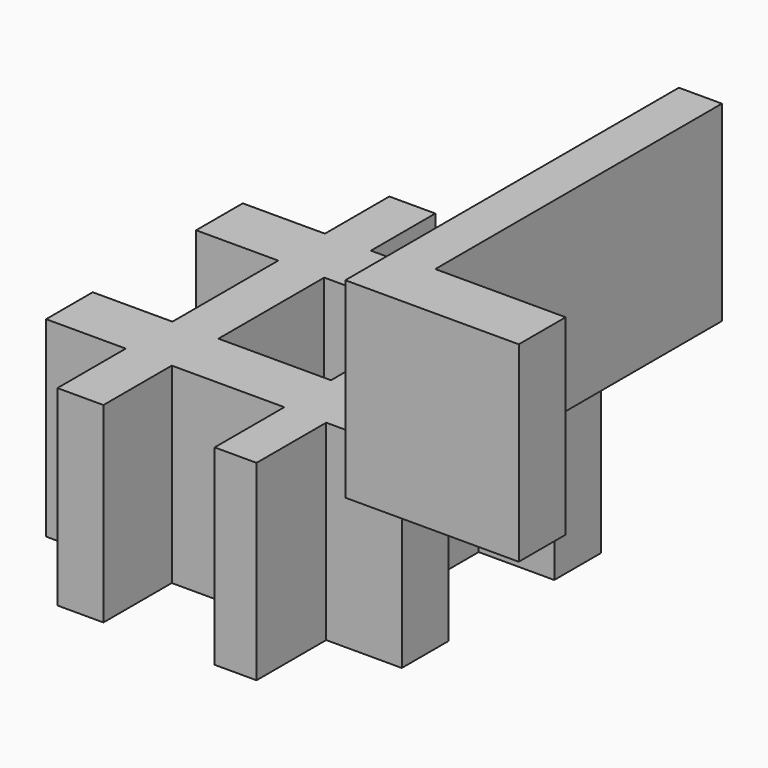
from build123d import *

# Parameters (mm, degrees)
F0_W     = 12.2086107731
F0_H     = 21.3650697842
F0_H_2   = 15.4787739739
F0_W_2   = 21.8010917306
F0_W_3   = 29.8674958758
F0_H_3   = 35.0997559726
F0_W_4   = 11.1185563728
F0_H_4   = 21.8010889366
F0_H_5   = 15.4787749052
F0_W_5   = 21.1470574141
F0_W_6   = 20.0570053421
F0_H_6   = 22.6731337607
F0_H_7   = 23.1091566384
F1_DEPTH = 50.8
F2_W     = 34.605551511
F2_H     = 15.5566222966
F3_DEPTH = 50.8


with BuildPart() as f1:
    # F0 (on Top) → F1 (new body)
    with BuildSketch(Plane.XY):
        with Locations((-40.1140078902, 26.161308866)):
            Rectangle(F0_W, F0_H)
        with Locations((-40.1140078902, 7.7393869869)):
            Rectangle(F0_W, F0_H_2)
        with Locations((-57.1188591421, 7.7393869869)):
            Rectangle(F0_W_2, F0_H_2)
        with Locations((-19.0759545658, 7.7393869869)):
            Rectangle(F0_W_3, F0_H_2)
        with Locations((-40.1140078902, -17.5498779863)):
            Rectangle(F0_W, F0_H_3)
        with Locations((1.4170715585, 7.7393869869)):
            Rectangle(F0_W_4, F0_H_2)
        with Locations((1.4170715585, 26.3793184422)):
            Rectangle(F0_W_4, F0_H_4)
        with Locations((-40.1140078902, -42.8391434252)):
            Rectangle(F0_W, F0_H_5)
        with Locations((-56.7918419838, -42.8391434252)):
            Rectangle(F0_W_5, F0_H_5)
        with Locations((-19.0759545658, -42.8391434252)):
            Rectangle(F0_W_3, F0_H_5)
        with Locations((1.4170715585, -17.5498779863)):
            Rectangle(F0_W_4, F0_H_3)
        with Locations((17.004852416, 7.7393869869)):
            Rectangle(F0_W_6, F0_H_2)
        with Locations((-40.1140078902, -61.9150977582)):
            Rectangle(F0_W, F0_H_6)
        with Locations((1.4170715585, -42.8391434252)):
            Rectangle(F0_W_4, F0_H_5)
        with Locations((1.4170715585, -62.133109197)):
            Rectangle(F0_W_4, F0_H_7)
        with Locations((17.004852416, -42.8391434252)):
            Rectangle(F0_W_6, F0_H_5)
    extrude(amount=F1_DEPTH)


with BuildPart() as f3:
    # F2 (on face) → F3 (new body)
    with BuildSketch(Plane.XY.offset(50.8)):
        Polygon((42.5271652639, 36.2442657351), (31.0978125781, 36.2442657351), (31.0978125781, -74.3982419372), (42.5271652639, -74.3982419372), (42.5271652639, -58.8416196406), align=None)
        with Locations((59.8299410194, -66.6199307889)):
            Rectangle(F2_W, F2_H)
    extrude(amount=F3_DEPTH)


solid = Compound([f1.part, f3.part])
